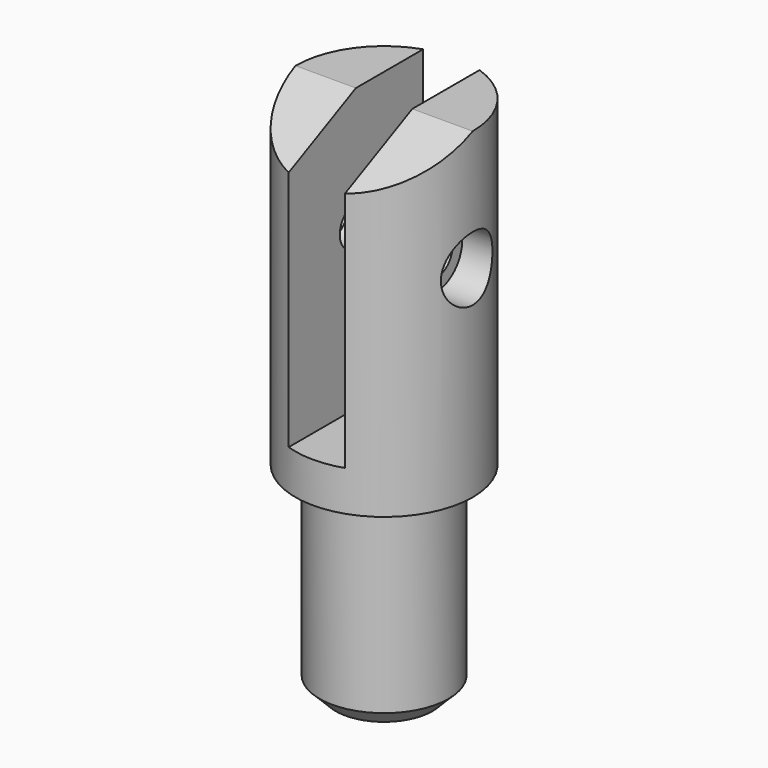
from build123d import *

# Parameters (mm, degrees)
F0_R      = 11
F1_DEPTH  = 40
F3_DEPTH  = 35
F6_DEPTH  = 7.501
F8_DEPTH  = 7.501
F5_R      = 8
F9_DEPTH  = 25
F10_R     = 2.5
F11_DEPTH = 7.501
F12_R     = 2.5
F13_DEPTH = 7.5010001
F14_SIZE  = 2
F17_DEPTH = 4.5010001
F19_R     = 4
F20_DEPTH = 4.5010001


with BuildPart() as f1:
    # F0 (on Top) → F1 (new body)
    with BuildSketch(Plane.XY):
        Circle(F0_R)
    extrude(amount=F1_DEPTH)

    # F2 (on face) → F3 (cut)
    with BuildSketch(Plane.XY.offset(40)):
        with BuildLine():
            ThreePointArc((-3.5, -10.4283268073), (0, -11), (3.5, -10.4283268073))
            Line((3.5, -10.4283268073), (3.5, 10.4283268073))
            ThreePointArc((3.5, 10.4283268073), (0, 11), (-3.5, 10.4283268073))
            Line((-3.5, 10.4283268073), (-3.5, -10.4283268073))
        make_face()
    extrude(amount=-F3_DEPTH, mode=Mode.SUBTRACT)

    # F4 (on face) → F6 (cut, through all)
    with BuildSketch(Plane.YZ.offset(-3.5)):
        Polygon((-10.4283268073, 35), (0, 40), (-10.4283268073, 40), align=None)
    extrude(amount=-F6_DEPTH, mode=Mode.SUBTRACT)

    # F7 (on face) → F8 (cut, through all)
    with BuildSketch(Plane(origin=(3.5, 0, 0), x_dir=(0, -1, 0), z_dir=(-1, 0, 0))):
        Polygon((10.4283268073, 40), (0, 40), (10.4283268073, 35), align=None)
    extrude(amount=-F8_DEPTH, mode=Mode.SUBTRACT)

    # F5 (on face) → F9 (join)
    with BuildSketch(Plane(origin=(0, 0, 0), x_dir=(1, 0, 0), z_dir=(0, 0, -1))):
        Circle(F5_R)
    extrude(amount=F9_DEPTH)

    # F10 (on face) → F11 (cut, through all)
    with BuildSketch(Plane(origin=(3.5, 0, 0), x_dir=(0, -1, 0), z_dir=(-1, 0, 0))):
        with Locations((0, 25)):
            Circle(F10_R)
    extrude(amount=-F11_DEPTH, mode=Mode.SUBTRACT)

    # F12 (on face) → F13 (cut, through all)
    with BuildSketch(Plane.YZ.offset(-3.5)):
        with Locations((0, 25)):
            Circle(F12_R)
    extrude(amount=-F13_DEPTH, mode=Mode.SUBTRACT)

    # F14
    f14_edges = [f1.edges().sort_by_distance(p)[0] for p in [
        (-8, 0, -25),
    ]]
    chamfer(f14_edges, length=F14_SIZE)

    # F16 (on offset) → F17 (cut, through all)
    with BuildSketch(Plane.YZ.offset(-6.5)):
        with BuildLine():
            ThreePointArc((1.9999999297, 21.7011209295), (3.4641015949, 23.1652225501), (4, 25.1652225852))
            ThreePointArc((4, 25.1652225852), (3.4641016169, 27.1652225821), (2.0000000062, 28.6293241968))
            ThreePointArc((2.0000000062, 28.6293241968), (7.14e-08, 29.1652225852), (-1.9999998825, 28.6293242682))
            ThreePointArc((-1.9999998825, 28.6293242682), (-3.4641015812, 27.165222644), (-4, 25.1652225852))
            ThreePointArc((-4, 25.1652225852), (-3.4641016169, 23.1652225883), (-2.0000000062, 21.7011209736))
            ThreePointArc((-2.0000000062, 21.7011209736), (-4.42e-08, 21.1652225852), (1.9999999297, 21.7011209295))
        make_face()
        with BuildLine():
            Line((4, 22.8558215084), (4, 25.1652225852))
            ThreePointArc((4, 25.1652225852), (3.4641015949, 23.1652225501), (1.9999999297, 21.7011209295))
            Line((1.9999999297, 21.7011209295), (4, 22.8558215084))
        make_face()
        with BuildLine():
            ThreePointArc((2.0000000062, 28.6293241968), (3.4641016169, 27.1652225821), (4, 25.1652225852))
            Line((4, 25.1652225852), (4, 27.474623662))
            Line((4, 27.474623662), (2.0000000062, 28.6293241968))
        make_face()
        with BuildLine():
            ThreePointArc((-1.9999998825, 28.6293242682), (7.14e-08, 29.1652225852), (2.0000000062, 28.6293241968))
            Line((2.0000000062, 28.6293241968), (0, 29.7840247387))
            Line((0, 29.7840247387), (-1.9999998825, 28.6293242682))
        make_face()
        with BuildLine():
            Line((0, 20.5464204317), (1.9999999297, 21.7011209295))
            ThreePointArc((1.9999999297, 21.7011209295), (-4.42e-08, 21.1652225852), (-2.0000000062, 21.7011209736))
            Line((-2.0000000062, 21.7011209736), (0, 20.5464204317))
        make_face()
        with BuildLine():
            ThreePointArc((-4, 25.1652225852), (-3.4641015812, 27.165222644), (-1.9999998825, 28.6293242682))
            Line((-1.9999998825, 28.6293242682), (-4, 27.474623662))
            Line((-4, 27.474623662), (-4, 25.1652225852))
        make_face()
        with BuildLine():
            Line((-4, 22.8558215084), (-2.0000000062, 21.7011209736))
            ThreePointArc((-2.0000000062, 21.7011209736), (-3.4641016169, 23.1652225883), (-4, 25.1652225852))
            Line((-4, 25.1652225852), (-4, 22.8558215084))
        make_face()
    extrude(amount=-F17_DEPTH, mode=Mode.SUBTRACT)

    # F19 (on offset) → F20 (cut, through all)
    with BuildSketch(Plane(origin=(6.5, 0, 0), x_dir=(0, -1, 0), z_dir=(-1, 0, 0))):
        with Locations((0, 25)):
            Circle(F19_R)
    extrude(amount=-F20_DEPTH, mode=Mode.SUBTRACT)


solid = f1.part
